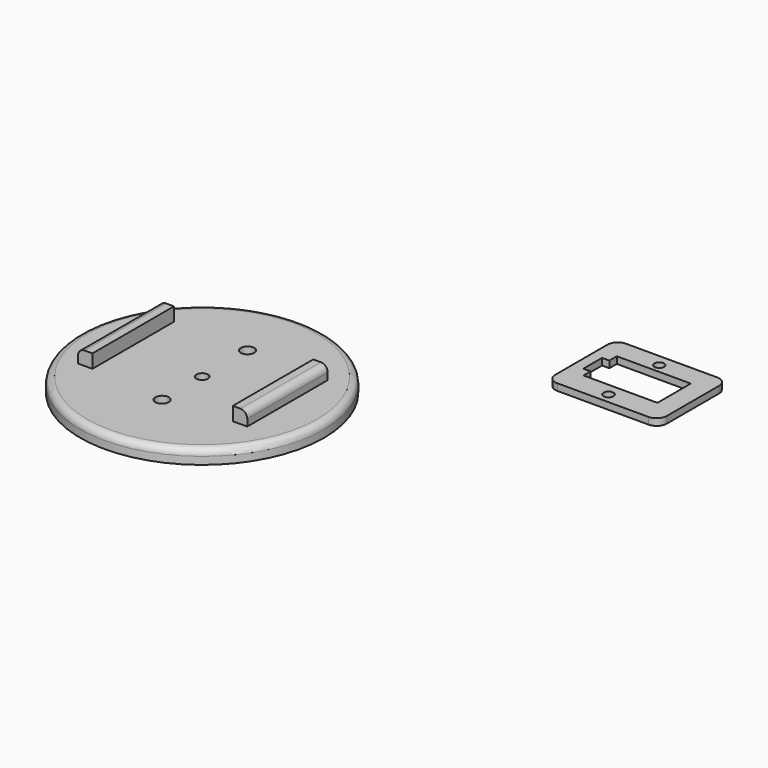
from build123d import *

# Parameters (mm, degrees)
F0_R      = 35.922
F1_DEPTH  = 4.2
F2_R      = 2
F3_R      = 1.699641
F5_R      = 1.982914
F5_R_2    = 1.982915
F6_DEPTH  = 25
F8_W      = 4.287663
F8_H      = 30.013652
F7_W      = 4.2491
F7_H      = 29.60207
F9_DEPTH  = 4
F10_R     = 2
F11_R     = 2
F14_DEPTH = 1.5
F15_W     = 32.849945
F15_H     = 25.238373
F16_DEPTH = 2
F17_R     = 3
F19_W     = 21.795623
F19_H     = 12.267485
F21_DEPTH = 25
F22_R     = 1.423427
F22_R_2   = 1.45824
F23_DEPTH = 25


with BuildPart() as f1:
    # F0 (on Top) → F1 (new body)
    with BuildSketch(Plane.XY):
        Circle(F0_R)
    extrude(amount=-F1_DEPTH)

    # F2
    f2_edges = [f1.edges().sort_by_distance(p)[0] for p in [
        (-35.922, 0, 0),
    ]]
    fillet(f2_edges, radius=F2_R)

    # F3 (on face) + F5 (on face) → F6 (cut)
    with BuildSketch(Plane.XY):
        Circle(F3_R)
    with BuildSketch(Plane.XY):
        with Locations((0, 16.713131)):
            Circle(F5_R)
        with Locations((0, -14.730216)):
            Circle(F5_R_2)
    extrude(amount=-F6_DEPTH, mode=Mode.SUBTRACT)

    # F8 (on face) + F7 (on face) → F9 (join)
    with BuildSketch(Plane.XY):
        with Locations((-24.261015, 2.270942)):
            Rectangle(F8_W, F8_H)
    with BuildSketch(Plane.XY):
        with Locations((21.534551, 1.849685)):
            Rectangle(F7_W, F7_H)
    extrude(amount=F9_DEPTH)

    # F10
    f10_edges = [f1.edges().sort_by_distance(p)[0] for p in [
        (-26.404846, 2.270942, 4),
    ]]
    fillet(f10_edges, radius=F10_R)

    # F11
    f11_edges = [f1.edges().sort_by_distance(p)[0] for p in [
        (23.659101, 1.849685, 4),
    ]]
    fillet(f11_edges, radius=F11_R)

    # F13 (on face) → F14 (join)
    with BuildSketch(Plane(origin=(0, 0, -4.2), x_dir=(1, 0, 0), z_dir=(0, 0, -1))):
        Polygon((0, 5.665469), (-18.412771, 0), (0, -5.665468), (14.446942, 0), align=None)
    extrude(amount=F14_DEPTH)


with BuildPart() as f16:
    # F15 (on Top) → F16 (new body)
    with BuildSketch(Plane.XY):
        with Locations((81.671086, 58.072503)):
            Rectangle(F15_W, F15_H)
    extrude(amount=F16_DEPTH)

    # F17
    f17_edges = [f16.edges().sort_by_distance(p)[0] for p in [
        (65.246113, 70.69169, 1),
        (98.096058, 45.453317, 1),
        (98.096058, 70.69169, 1),
        (65.246113, 45.453317, 1),
    ]]
    fillet(f17_edges, radius=F17_R)

    # F19 (on face) + F20 (on face) → F21 (cut)
    with BuildSketch(Plane.XY.offset(2)):
        with Locations((81.426006, 58.358453)):
            Rectangle(F19_W, F19_H)
    with BuildSketch(Plane.XY.offset(2)):
        Polygon((71.600109, 54.844953), (71.600109, 61.752856), (68.384357, 61.752856), (68.384357, 57.226986), (68.384357, 54.844953), align=None)
    extrude(amount=-F21_DEPTH, mode=Mode.SUBTRACT)

    # F22 (on face) → F23 (cut)
    with BuildSketch(Plane.XY.offset(2)):
        with Locations((80.936566, 67.139201)):
            Circle(F22_R)
        with Locations((80.936566, 48.443154)):
            Circle(F22_R_2)
    extrude(amount=-F23_DEPTH, mode=Mode.SUBTRACT)


solid = Compound([f1.part, f16.part])
